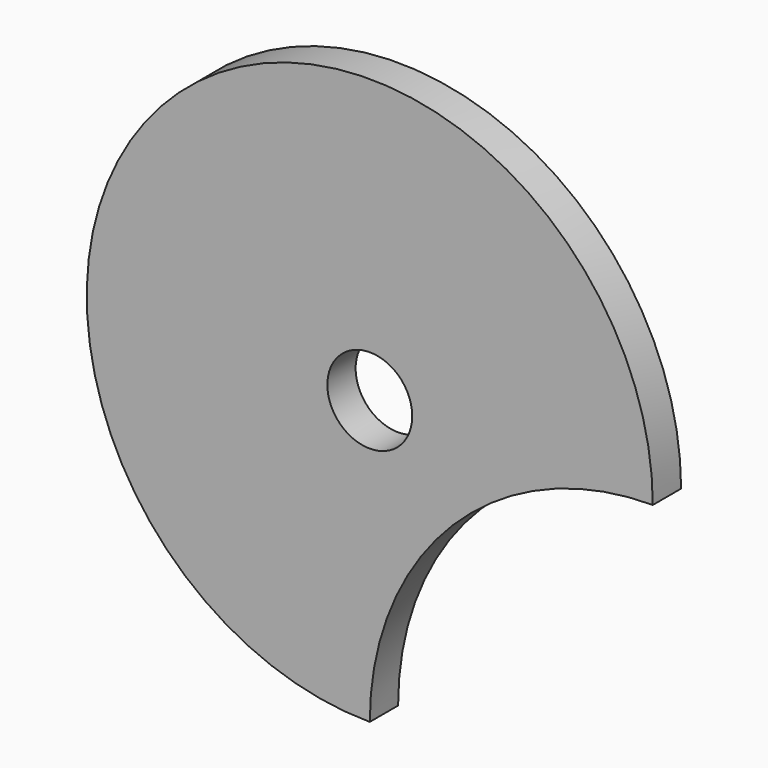
from build123d import *

# Parameters (mm, degrees)
F0_R     = 40
F0_R_2   = 6
F1_DEPTH = 5
F3_DEPTH = 25


with BuildPart() as f1:
    # F0 (on Front) → F1 (new body)
    with BuildSketch(Plane.XZ):
        Circle(F0_R)
        Circle(F0_R_2, mode=Mode.SUBTRACT)
    extrude(amount=F1_DEPTH)

    # F2 (on face) → F3 (cut)
    with BuildSketch(Plane.XZ.offset(5)):
        with BuildLine():
            ThreePointArc((0, -40), (28.284271, -28.284271), (40, 0))
            ThreePointArc((40, 0), (11.715729, -11.715729), (0, -40))
        make_face()
    extrude(amount=-F3_DEPTH, mode=Mode.SUBTRACT)


solid = f1.part
